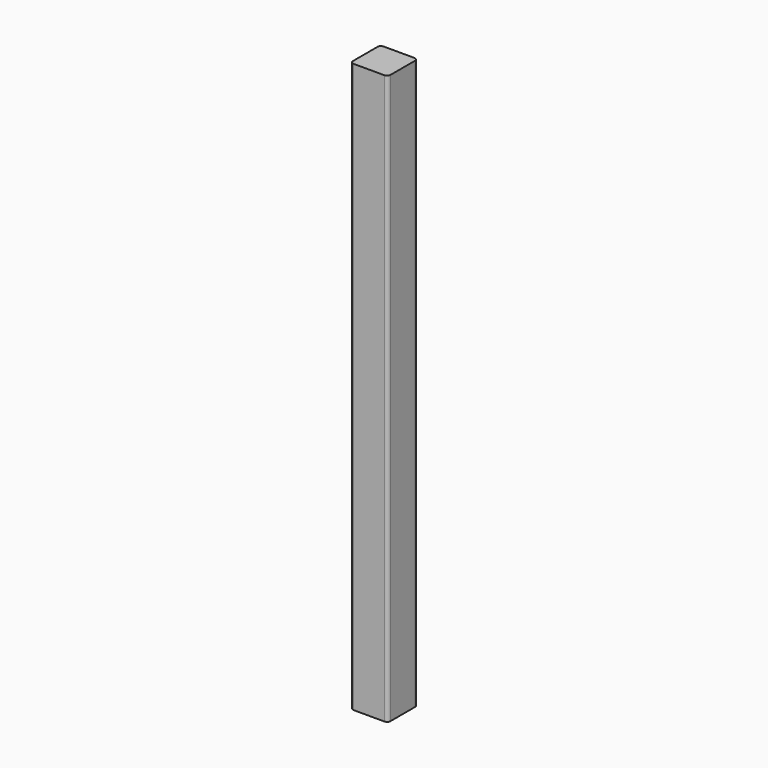
from build123d import *

# Parameters (mm, degrees)
F0_W     = 33
F0_H     = 33
F1_DEPTH = 500
F2_R     = 3
F3_R     = 4
F4_DEPTH = 25


with BuildPart() as f1:
    # F0 (on Top) → F1 (new body)
    with BuildSketch(Plane.XY):
        with Locations((16.5, -16.5)):
            Rectangle(F0_W, F0_H)
    extrude(amount=F1_DEPTH)

    # F2
    f2_edges = [f1.edges().sort_by_distance(p)[0] for p in [
        (33, 0, 250),
        (33, -33, 250),
        (0, -33, 250),
        (0, 0, 250),
    ]]
    fillet(f2_edges, radius=F2_R)

    # F3 (on face) → F4 (cut)
    with BuildSketch(Plane(origin=(0, 0, 0), x_dir=(1, 0, 0), z_dir=(0, 0, -1))):
        with Locations((16.5, 16.5)):
            Circle(F3_R)
    extrude(amount=-F4_DEPTH, mode=Mode.SUBTRACT)


solid = f1.part
